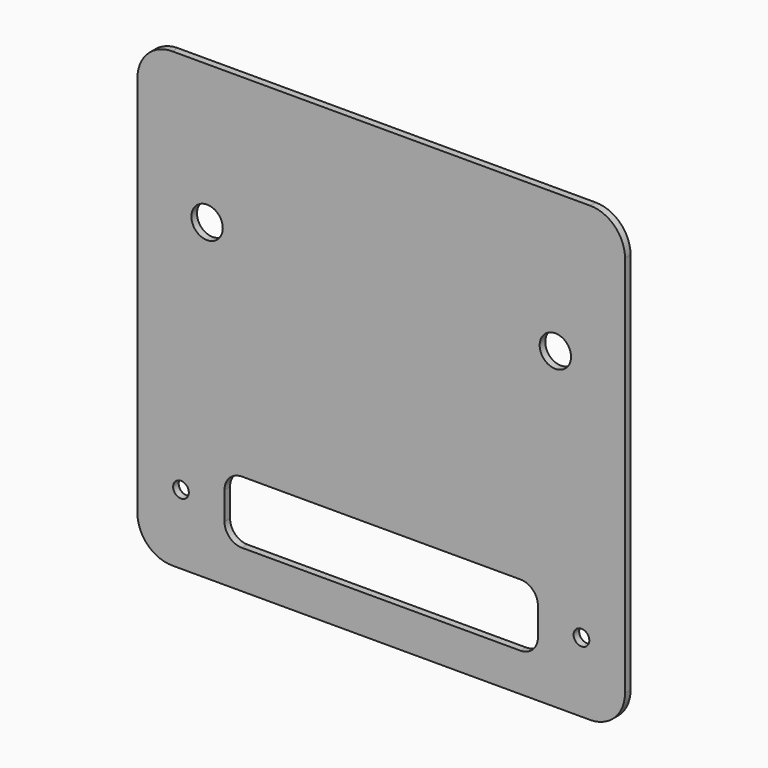
from build123d import *

# Parameters (mm, degrees)
F0_R     = 2.25
F0_R_2   = 4.5
F1_DEPTH = 2
F2_R     = 10
F3_R     = 5


with BuildPart() as f1:
    # F0 (on Front) → F1 (new body)
    with BuildSketch(Plane.XZ):
        Polygon((70, 40), (0, 40), (0, -61), (45, -61), (45, -79), (0, -79), (0, -90), (70, -90), align=None)
        with Locations((57.5, -70)):
            Circle(F0_R, mode=Mode.SUBTRACT)
        with Locations((50, 0)):
            Circle(F0_R_2, mode=Mode.SUBTRACT)
        Polygon((0, -61), (0, 40), (-70, 40), (-70, -90), (0, -90), (0, -79), (-45, -79), (-45, -61), align=None)
        with Locations((-57.5, -70)):
            Circle(F0_R, mode=Mode.SUBTRACT)
        with Locations((-50, 0)):
            Circle(F0_R_2, mode=Mode.SUBTRACT)
    extrude(amount=F1_DEPTH)

    # F2
    f2_edges = [f1.edges().sort_by_distance(p)[0] for p in [
        (70, -1, 40),
        (-70, -1, 40),
        (70, -1, -90),
        (-70, -1, -90),
    ]]
    fillet(f2_edges, radius=F2_R)

    # F3
    f3_edges = [f1.edges().sort_by_distance(p)[0] for p in [
        (45, -1, -61),
        (45, -1, -79),
        (-45, -1, -79),
        (-45, -1, -61),
    ]]
    fillet(f3_edges, radius=F3_R)


solid = f1.part
